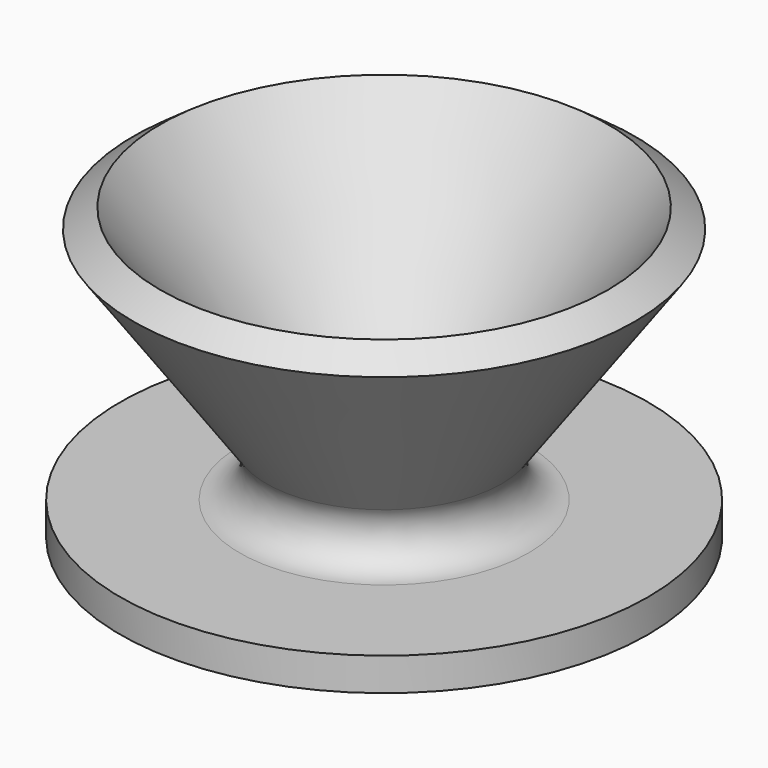
from build123d import *


with BuildPart() as f1:
    # F0 (on Front) → F1 (revolve)
    with BuildSketch(Plane.XZ):
        with BuildLine():
            Line((0, 13.566043), (0, 0))
            Line((0, 0), (50.8, 0))
            Line((50.8, 0), (50.8, 6.35))
            Line((50.8, 6.35), (27.811378, 6.35))
            ThreePointArc((27.811378, 6.35), (22.164087, 9.796451), (22.646909, 16.394693))
            Line((22.646909, 16.394693), (48.26595, 52.205176))
            Line((48.26595, 52.205176), (43.101481, 55.899869))
            Line((43.101481, 55.899869), (14.715223, 16.22135))
            ThreePointArc((14.715223, 16.22135), (12.454303, 14.268752), (9.550754, 13.566043))
            Line((9.550754, 13.566043), (0, 13.566043))
        make_face()
    revolve(axis=Axis((0, 0, 6.783022), (0, 0, -1)))


solid = f1.part
